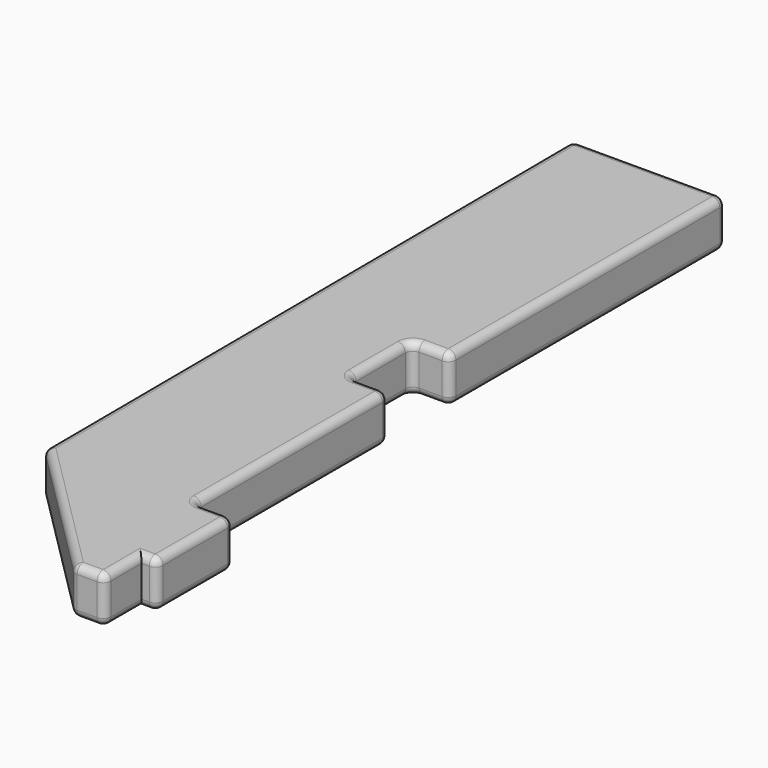
from build123d import *

# Parameters (mm, degrees)
PAD_DEPTH   = 6.1
FILLET_R    = 0.99
FILLET001_R = 1


with BuildPart() as part:
    # Sketch → Pad (new body)
    with BuildSketch(Plane.XY):
        Polygon((-0.5, 105), (19.5, 105), (19.5, 60), (14.5, 60), (14.5, 50), (19.5, 50), (19.5, 18.5), (24.5, 18.5), (24.5, 6), (22.5, 6), (22.5, 0), (18.5, 0), (0, 18.5), align=None)
    extrude(amount=PAD_DEPTH)

    # Fillet
    fillet_edges = [part.edges().sort_by_distance(p)[0] for p in [
        (22.5, 0, 3.05),
        (19.5, 50, 3.05),
        (14.5, 50, 3.05),
        (14.5, 60, 3.05),
        (18.5, 0, 3.05),
        (0, 18.5, 3.05),
        (19.5, 105, 3.05),
        (-0.5, 105, 3.05),
        (19.5, 60, 3.05),
        (24.5, 6, 3.05),
        (24.5, 18.5, 3.05),
        (19.5, 18.5, 3.05),
    ]]
    fillet(fillet_edges, radius=FILLET_R)

    # Fillet001
    fillet001_edges = [part.edges().sort_by_distance(p)[0] for p in [
        (9.50287, 105, 6.1),
        (9.50287, 105, 0),
    ]]
    fillet(fillet001_edges, radius=FILLET001_R)


solid = part.part
